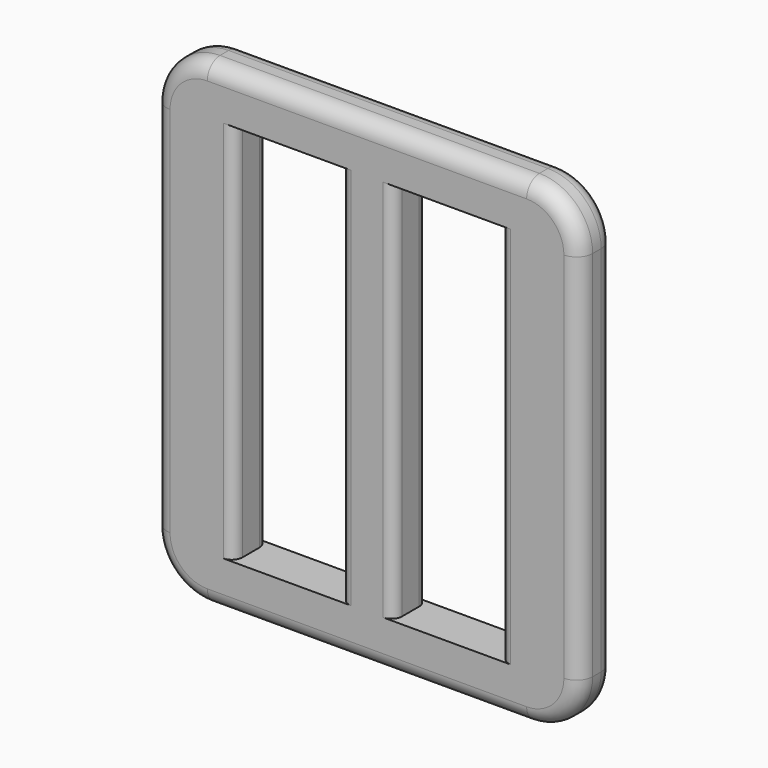
from build123d import *

# Parameters (mm, degrees)
F0_W     = 10
F0_H     = 36
F1_DEPTH = 4
F2_R     = 1
F3_R     = 1
F4_R     = 1.5


with BuildPart() as f1:
    # F0 (on Front) → F1 (new body)
    with BuildSketch(Plane.XZ):
        with BuildLine():
            ThreePointArc((-18.134615, -17.951065), (-16.670149, -21.486599), (-13.134615, -22.951065))
            Line((-13.134615, -22.951065), (16.865385, -22.951065))
            ThreePointArc((16.865385, -22.951065), (20.400919, -21.486599), (21.865385, -17.951065))
            Line((21.865385, -17.951065), (21.865385, 17.048935))
            ThreePointArc((21.865385, 17.048935), (20.400919, 20.584469), (16.865385, 22.048935))
            Line((16.865385, 22.048935), (-13.134615, 22.048935))
            ThreePointArc((-13.134615, 22.048935), (-16.670149, 20.584469), (-18.134615, 17.048935))
            Line((-18.134615, 17.048935), (-18.134615, -17.951065))
        make_face()
        with Locations((-5.634615, -0.451065)):
            Rectangle(F0_W, F0_H, mode=Mode.SUBTRACT)
        with Locations((9.365385, -0.451065)):
            Rectangle(F0_W, F0_H, mode=Mode.SUBTRACT)
    extrude(amount=F1_DEPTH)

    # F2
    f2_edges = [f1.edges().sort_by_distance(p)[0] for p in [
        (-0.634615, 0, -0.451065),
        (4.365385, 0, -0.451065),
        (4.365385, -4, -0.451065),
        (-0.634615, -4, -0.451065),
    ]]
    fillet(f2_edges, radius=F2_R)

    # F3
    f3_edges = [f1.edges().sort_by_distance(p)[0] for p in [
        (14.365385, -4, -0.451065),
        (14.365385, 0, -0.451065),
        (-10.634615, -4, -0.451065),
        (-10.634615, 0, -0.451065),
    ]]
    fillet(f3_edges, radius=F3_R)

    # F4
    f4_edges = [f1.edges().sort_by_distance(p)[0] for p in [
        (21.865385, -4, -0.451065),
        (21.865385, 0, -0.451065),
    ]]
    fillet(f4_edges, radius=F4_R)


solid = f1.part
